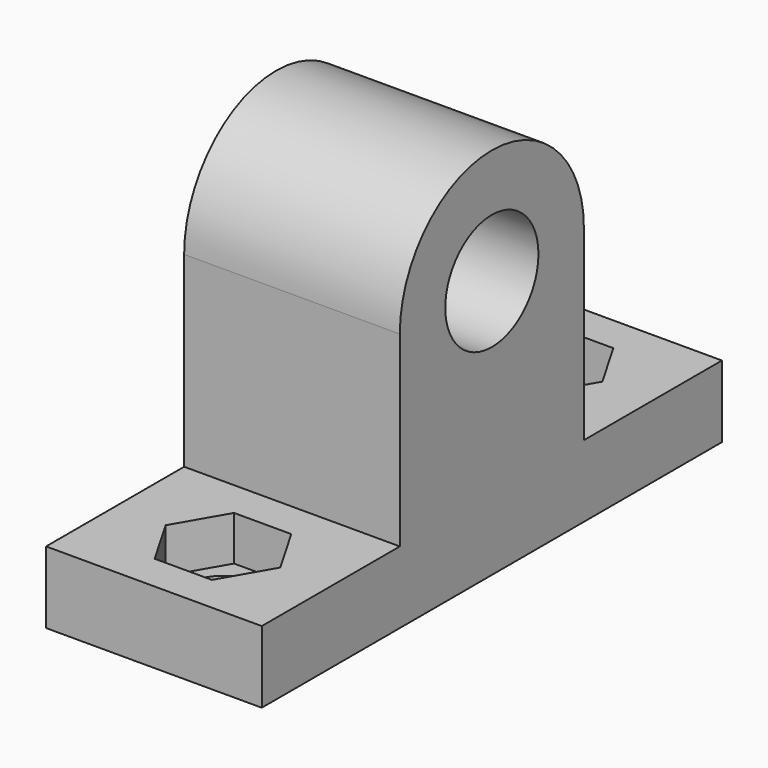
from build123d import *

# Parameters (mm, degrees)
SKETCH_R        = 4.05
PAD_DEPTH       = 7.5
POCKET_DEPTH    = 3.1
SKETCH002_R     = 2.5
POCKET001_DEPTH = 126.020998


with BuildPart() as part:
    # Sketch → Pad (new body, symmetric)
    with BuildSketch(Plane.YZ):
        with BuildLine():
            Line((-20, 0), (20, 0))
            Line((20, 0), (20, 5))
            Line((20, 5), (8, 5))
            Line((8, 5), (8, 18))
            ThreePointArc((8, 18), (0, 26), (-8, 18))
            Line((-8, 18), (-8, 5))
            Line((-8, 5), (-20, 5))
            Line((-20, 5), (-20, 0))
        make_face()
        with Locations((0, 18)):
            Circle(SKETCH_R, mode=Mode.SUBTRACT)
    extrude(amount=PAD_DEPTH, both=True)

    # Sketch001 (on Face7 of Pad) → Pocket (cut)
    with BuildSketch(Plane(origin=(0, 0, 5), x_dir=(0, -1, 0), z_dir=(0, 0, 1))):
        Polygon((-10.55, 1.991858), (-14, 3.983717), (-17.45, 1.991858), (-17.45, -1.991858), (-14, -3.983717), (-10.55, -1.991858), align=None)
    pocket = extrude(amount=-POCKET_DEPTH, mode=Mode.SUBTRACT)

    # Sketch002 (on Face1 of Pocket) → Pocket001 (cut, through all)
    with BuildSketch(Plane.YX):
        with Locations((14, 0)):
            Circle(SKETCH002_R)
    pocket001 = extrude(amount=-POCKET001_DEPTH, mode=Mode.SUBTRACT)

    # Mirrored: Pocket, Pocket001 across XZ
    add(pocket.mirror(Plane.XZ), mode=Mode.SUBTRACT)
    add(pocket001.mirror(Plane.XZ), mode=Mode.SUBTRACT)


solid = part.part
